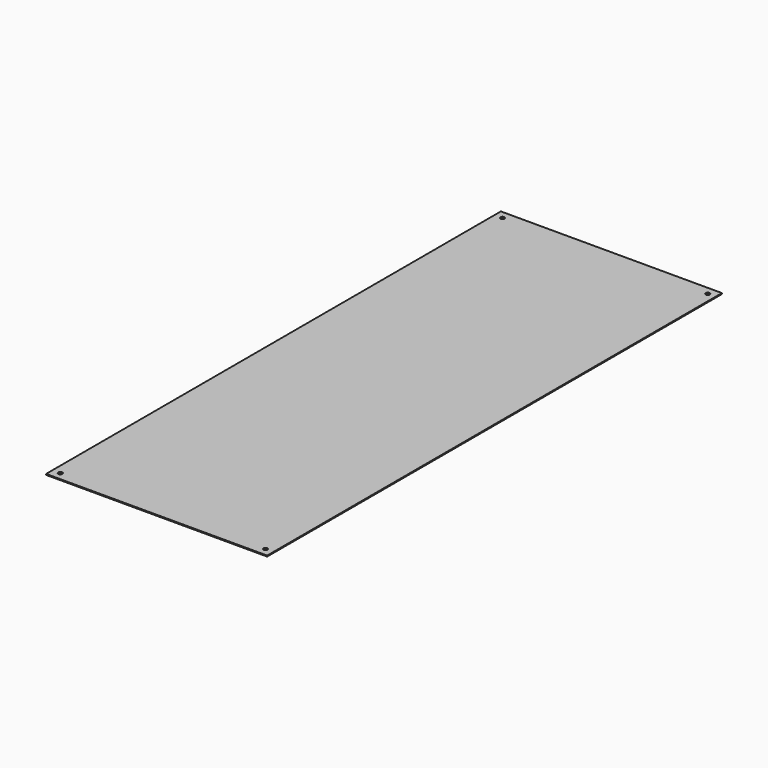
from build123d import *

# Parameters (mm, degrees)
SKETCH_W  = 355.6
SKETCH_H  = 914.4
SKETCH_R  = 3.3
PAD_DEPTH = 1.519


with BuildPart() as part:
    # Sketch → Pad (new body)
    with BuildSketch(Plane.XY):
        Rectangle(SKETCH_W, SKETCH_H)
        with Locations((165.1, 444.5)):
            Circle(SKETCH_R, mode=Mode.SUBTRACT)
        with Locations((-165.1, 444.5)):
            Circle(SKETCH_R, mode=Mode.SUBTRACT)
        with Locations((-165.1, -444.5)):
            Circle(SKETCH_R, mode=Mode.SUBTRACT)
        with Locations((165.1, -444.5)):
            Circle(SKETCH_R, mode=Mode.SUBTRACT)
    extrude(amount=PAD_DEPTH)


solid = part.part
